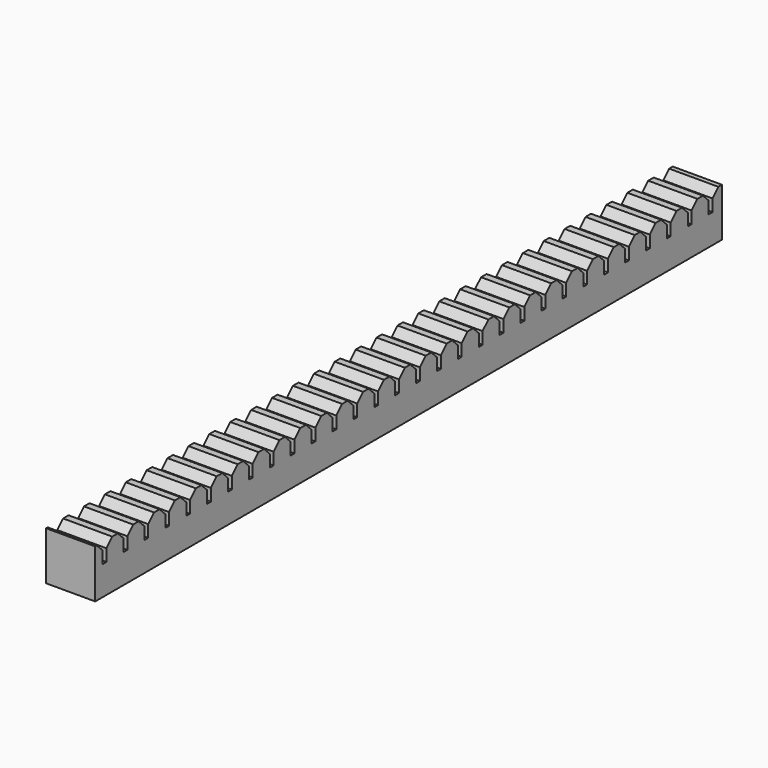
from build123d import *

# Parameters (mm, degrees)
F0_W     = 10.142418
F0_H     = 161.628514
F1_DEPTH = 10
F2_W     = 10.142418
F2_H     = 0.964075
F3_DEPTH = 4
F4_SIZE  = 1.5


with BuildPart() as f1:
    # F0 (on Top) → F1 (new body)
    with BuildSketch(Plane.XY):
        Rectangle(F0_W, F0_H)
    extrude(amount=F1_DEPTH)

    # F2 (on face) → F3 (cut)
    with BuildSketch(Plane.XY.offset(10)):
        with Locations((0, -78.418745)):
            Rectangle(F2_W, F2_H)
        with Locations((0, -73.028744)):
            Rectangle(F2_W, F2_H)
        with Locations((0, -67.638745)):
            Rectangle(F2_W, F2_H)
        with Locations((0, -62.248745)):
            Rectangle(F2_W, F2_H)
        with Locations((0, -56.858745)):
            Rectangle(F2_W, F2_H)
        with Locations((0, -51.468744)):
            Rectangle(F2_W, F2_H)
        with Locations((0, -46.078744)):
            Rectangle(F2_W, F2_H)
        with Locations((0, -40.688744)):
            Rectangle(F2_W, F2_H)
        with Locations((0, -35.298744)):
            Rectangle(F2_W, F2_H)
        with Locations((0, -29.908744)):
            Rectangle(F2_W, F2_H)
        with Locations((0, -24.518744)):
            Rectangle(F2_W, F2_H)
        with Locations((0, -19.128744)):
            Rectangle(F2_W, F2_H)
        with Locations((0, -13.738744)):
            Rectangle(F2_W, F2_H)
        with Locations((0, -8.348744)):
            Rectangle(F2_W, F2_H)
        with Locations((0, -2.958744)):
            Rectangle(F2_W, F2_H)
        with Locations((0, 2.431255)):
            Rectangle(F2_W, F2_H)
        with Locations((0, 7.821255)):
            Rectangle(F2_W, F2_H)
        with Locations((0, 13.211256)):
            Rectangle(F2_W, F2_H)
        with Locations((0, 18.601256)):
            Rectangle(F2_W, F2_H)
        with Locations((0, 23.991256)):
            Rectangle(F2_W, F2_H)
        with Locations((0, 29.381255)):
            Rectangle(F2_W, F2_H)
        with Locations((0, 34.771255)):
            Rectangle(F2_W, F2_H)
        with Locations((0, 40.161255)):
            Rectangle(F2_W, F2_H)
        with Locations((0, 45.551255)):
            Rectangle(F2_W, F2_H)
        with Locations((0, 50.941255)):
            Rectangle(F2_W, F2_H)
        with Locations((0, 56.331255)):
            Rectangle(F2_W, F2_H)
        with Locations((0, 61.721255)):
            Rectangle(F2_W, F2_H)
        with Locations((0, 67.111255)):
            Rectangle(F2_W, F2_H)
        with Locations((0, 72.501255)):
            Rectangle(F2_W, F2_H)
        with Locations((0, 77.891255)):
            Rectangle(F2_W, F2_H)
    extrude(amount=-F3_DEPTH, mode=Mode.SUBTRACT)

    # F4
    f4_edges = [f1.edges().sort_by_distance(p)[0] for p in [
        (0, -50.986707, 10),
        (0, -51.950782, 10),
        (0, -57.340782, 10),
        (0, -56.376707, 10),
        (0, -61.766707, 10),
        (0, -62.730782, 10),
        (0, -67.156707, 10),
        (0, -68.120782, 10),
        (0, -72.546707, 10),
        (0, -73.510782, 10),
        (0, -77.936707, 10),
        (0, -78.900782, 10),
        (0, -46.560782, 10),
        (0, -45.596707, 10),
        (0, -41.170782, 10),
        (0, -40.206707, 10),
        (0, -35.780782, 10),
        (0, -34.816707, 10),
        (0, -30.390782, 10),
        (0, -25.000782, 10),
        (0, -24.036707, 10),
        (0, -19.610782, 10),
        (0, -18.646707, 10),
        (0, -14.220782, 10),
        (0, -13.256707, 10),
        (0, -8.830782, 10),
        (0, -7.866707, 10),
        (0, -3.440782, 10),
        (0, -2.476707, 10),
        (0, 1.949218, 10),
        (0, 2.913293, 10),
        (0, 7.339218, 10),
        (0, 8.303293, 10),
        (0, 12.729218, 10),
        (0, 13.693293, 10),
        (0, 18.119218, 10),
        (0, 19.083293, 10),
        (0, 23.509218, 10),
        (0, 29.863293, 10),
        (0, 28.899218, 10),
        (0, 24.473293, 10),
        (0, 34.289218, 10),
        (0, 35.253293, 10),
        (0, 39.679218, 10),
        (0, 40.643293, 10),
        (0, 45.069218, 10),
        (0, 46.033293, 10),
        (0, 50.459218, 10),
        (0, 78.373293, 10),
        (0, 77.409218, 10),
        (0, 72.983293, 10),
        (0, 72.019218, 10),
        (0, 67.593293, 10),
        (0, 66.629218, 10),
        (0, 62.203293, 10),
        (0, 61.239218, 10),
        (0, 56.813293, 10),
        (0, 55.849218, 10),
        (0, 51.423293, 10),
        (0, -29.426707, 10),
    ]]
    chamfer(f4_edges, length=F4_SIZE)


solid = f1.part
